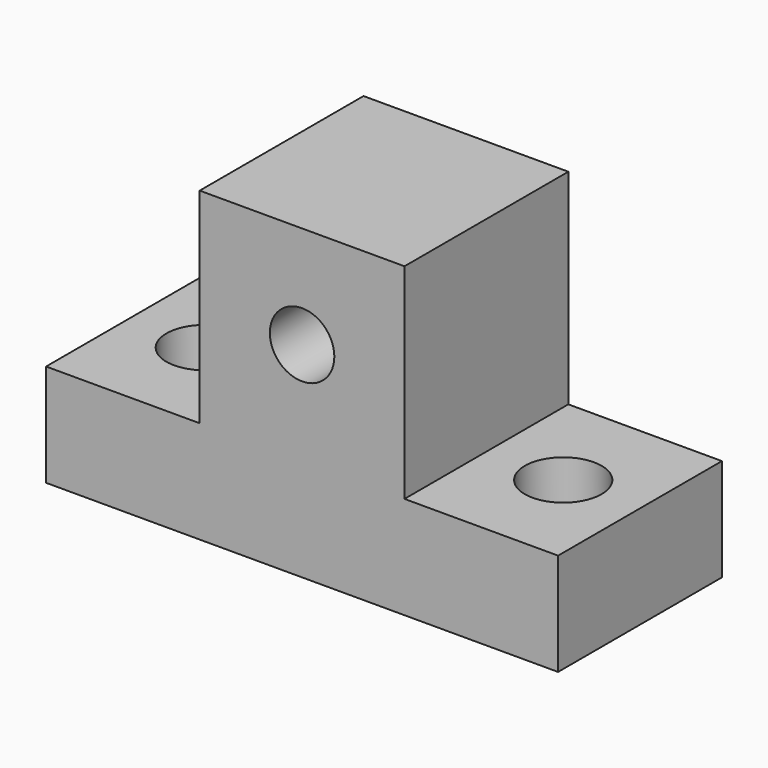
from build123d import *

# Parameters (mm, degrees)
F1_DEPTH = 25.4
F2_R     = 4.7625
F3_DEPTH = 12.701
F4_R     = 4.7625
F5_DEPTH = 12.701
F6_R     = 4
F7_DEPTH = 25.401
F8_R     = 3.175
F9_DEPTH = 3.175


with BuildPart() as f1:
    # F0 (on Front) → F1 (new body)
    with BuildSketch(Plane.XZ):
        Polygon((-31.75, 12.7), (-31.75, 0), (31.75, 0), (31.75, 12.7), (12.7, 12.7), (12.7, 38.1), (-12.7, 38.1), (-12.7, 12.7), align=None)
    extrude(amount=F1_DEPTH)

    # F2 (on face) → F3 (cut, through all)
    with BuildSketch(Plane.XY.offset(12.7)):
        with Locations((-22.225, -12.7)):
            Circle(F2_R)
    extrude(amount=-F3_DEPTH, mode=Mode.SUBTRACT)

    # F4 (on face) → F5 (cut, through all)
    with BuildSketch(Plane.XY.offset(12.7)):
        with Locations((22.225, -12.7)):
            Circle(F4_R)
    extrude(amount=-F5_DEPTH, mode=Mode.SUBTRACT)

    # F6 (on face) → F7 (cut, through all)
    with BuildSketch(Plane.XZ.offset(25.4)):
        with Locations((0, 25.4)):
            Circle(F6_R)
    extrude(amount=-F7_DEPTH, mode=Mode.SUBTRACT)

    # F8 (on face) → F9 (cut)
    with BuildSketch(Plane(origin=(0, 0, 0), x_dir=(1, 0, 0), z_dir=(0, 0, -1))):
        with Locations((0, 12.7)):
            Circle(F8_R)
    extrude(amount=-F9_DEPTH, mode=Mode.SUBTRACT)


solid = f1.part
